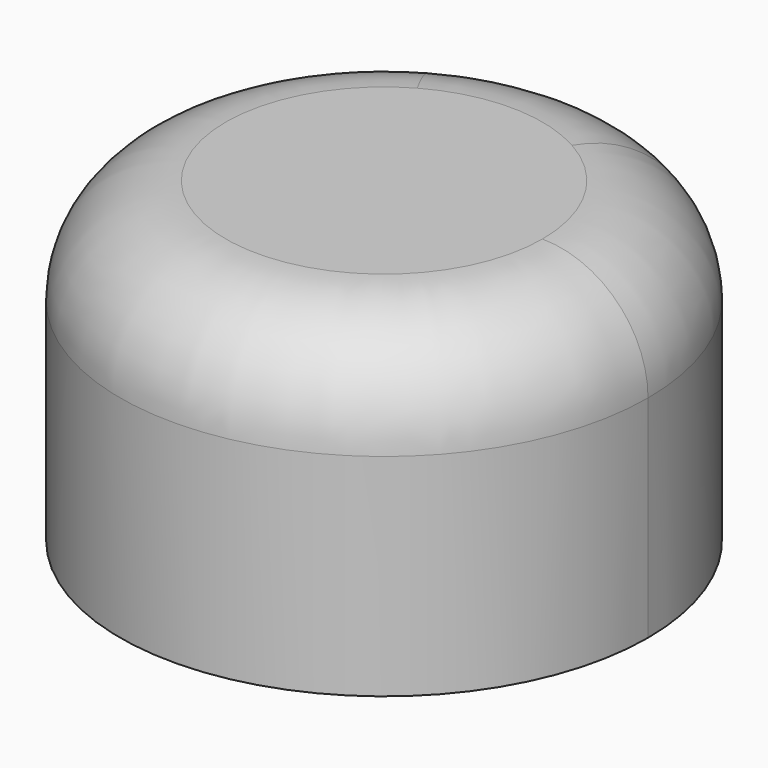
from build123d import *

# Parameters (mm, degrees)
F1_DEPTH = 60
F2_R     = 20


with BuildPart() as f1:
    # F0 (on Top) → F1 (new body)
    with BuildSketch(Plane.XY):
        with BuildLine():
            Line((-24.4422037458, 43.6185588488), (24.4422037458, 43.6185588488))
            ThreePointArc((24.4422037458, 43.6185588488), (0, 50), (-24.4422037458, 43.6185588488))
        make_face()
        with BuildLine():
            ThreePointArc((-24.4422037458, 43.6185588488), (-25.2773595606, -43.1399477705), (50, 0))
            ThreePointArc((50, 0), (43.1399477705, 25.2773595606), (24.4422037458, 43.6185588488))
            Line((24.4422037458, 43.6185588488), (-24.4422037458, 43.6185588488))
        make_face()
    extrude(amount=F1_DEPTH)

    # F2
    f2_edges = [f1.edges().sort_by_distance(p)[0] for p in [
        (24.442204, -43.618559, 60),
    ]]
    fillet(f2_edges, radius=F2_R)


solid = f1.part
